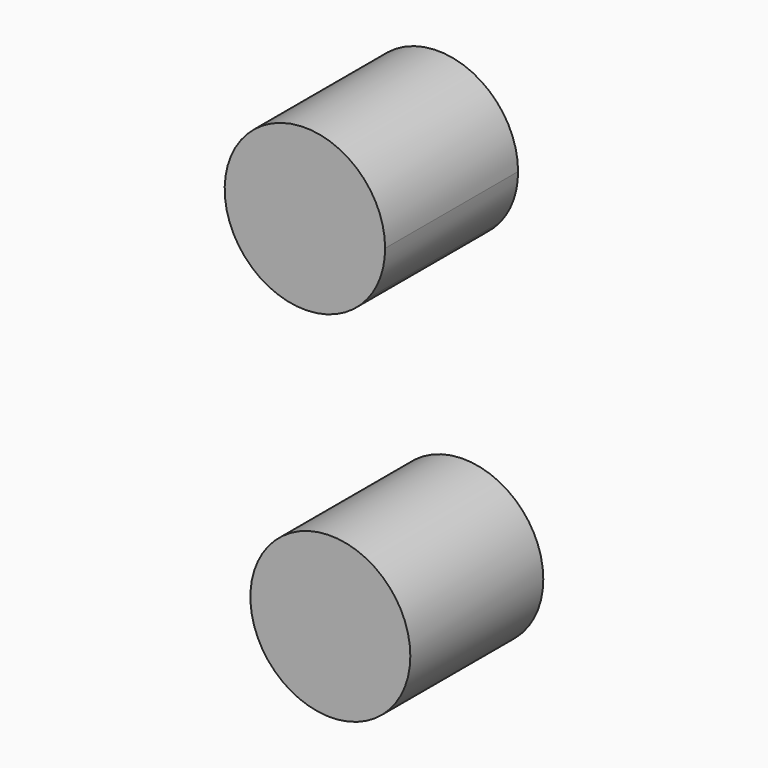
from build123d import *

# Parameters (mm, degrees)
F1_R     = 30.552522
F2_DEPTH = 63.5


with BuildPart() as f2:
    # F0 (on Front) + F1 (on Front) → F2 (new body)
    with BuildSketch(Plane.XZ):
        with BuildLine():
            ThreePointArc((-126.153449, 37.714677), (-121.195707, 46.695053), (-119.479023, 56.808379))
            ThreePointArc((-119.479023, 56.808379), (-179.058608, 66.921704), (-126.153449, 37.714677))
        make_face()
    with BuildSketch(Plane.XZ):
        with Locations((-140.399292, -77.181675)):
            Circle(F1_R)
    extrude(amount=F2_DEPTH)


solid = f2.part
